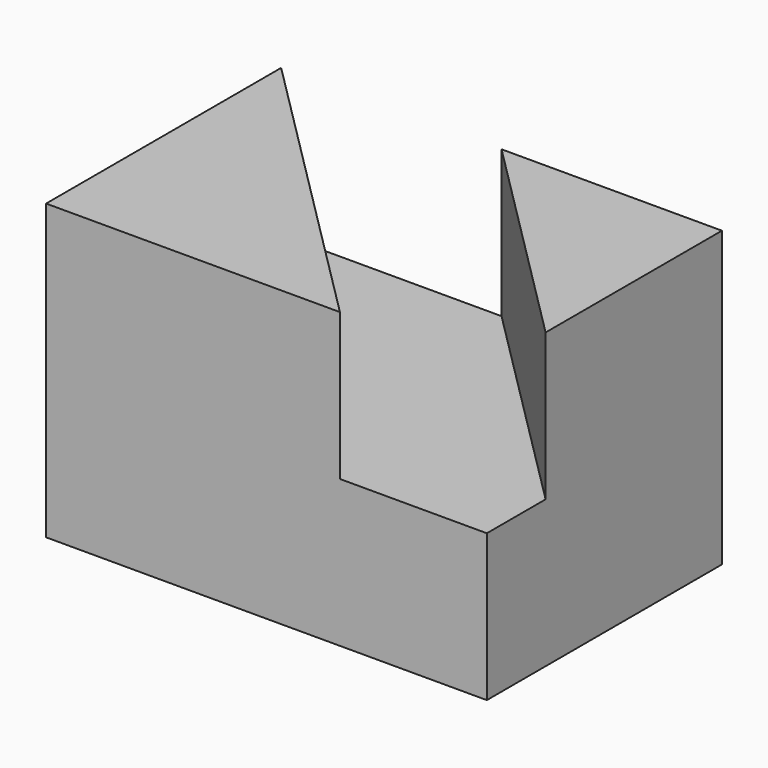
from build123d import *

# Parameters (mm, degrees)
F0_W     = 38.1
F0_H     = 25.4
F1_DEPTH = 25.4
F2_W     = 12.7
F2_H     = 12.7
F3_DEPTH = 6.35
F5_DEPTH = 12.7


with BuildPart() as f1:
    # F0 (on Front) → F1 (new body)
    with BuildSketch(Plane.XZ):
        with Locations((19.05, 12.7)):
            Rectangle(F0_W, F0_H)
    extrude(amount=-F1_DEPTH)

    # F2 (on face) → F3 (cut)
    with BuildSketch(Plane.XZ):
        with Locations((31.75, 19.05)):
            Rectangle(F2_W, F2_H)
    extrude(amount=-F3_DEPTH, mode=Mode.SUBTRACT)

    # F4 (on face) → F5 (cut)
    with BuildSketch(Plane.XY.offset(25.4)):
        Polygon((0, 25.4), (25.4, 0), (25.4, 1.118065), (25.4, 6.35), (38.1, 6.35), (19.05, 25.4), align=None)
    extrude(amount=-F5_DEPTH, mode=Mode.SUBTRACT)


solid = f1.part
